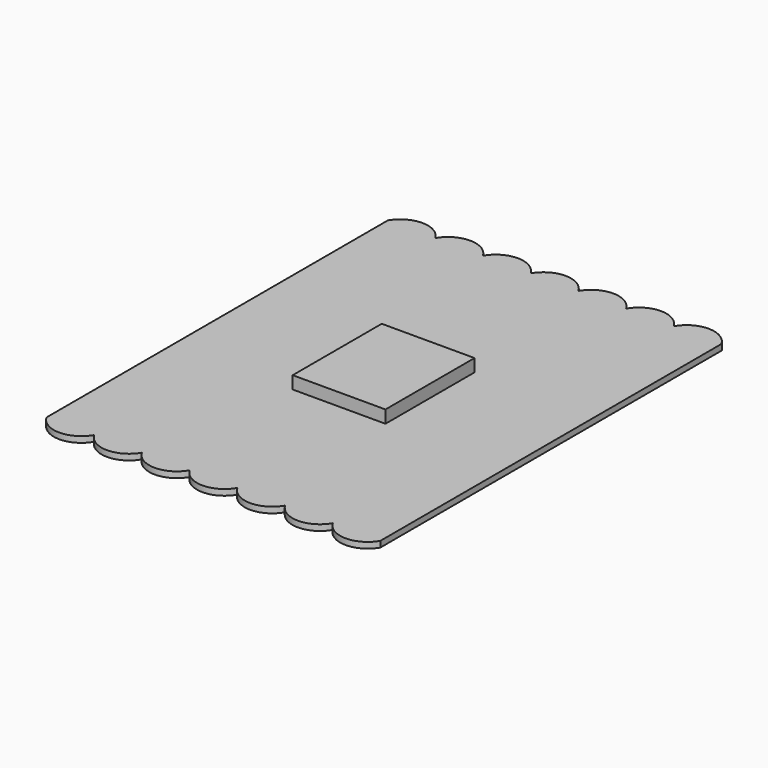
from build123d import *

# Parameters (mm, degrees)
F2_DEPTH = 2.032
F1_W     = 31.75
F1_H     = 38.1
F3_DEPTH = 6.35


with BuildPart() as f2:
    # F0 (on Top) → F2 (new body)
    with BuildSketch(Plane.XY):
        with BuildLine():
            Line((-25.666303, 110.772182), (-25.767383, 110.772182))
            ThreePointArc((-25.767383, 110.772182), (-33.883333, 115.391553), (-41.999282, 110.772182))
            Line((-41.999282, 110.772182), (-41.999282, -35.277818))
            ThreePointArc((-41.999282, -35.277818), (-33.832793, -39.983321), (-25.666303, -35.277818))
            Line((-25.666303, -35.277818), (-25.665812, -35.277818))
            ThreePointArc((-25.665812, -35.277818), (-17.499323, -39.983321), (-9.332833, -35.277818))
            Line((-9.332833, -35.277818), (-9.332342, -35.277818))
            ThreePointArc((-9.332342, -35.277818), (-1.165853, -39.983321), (7.000637, -35.277818))
            Line((7.000637, -35.277818), (7.001128, -35.277818))
            ThreePointArc((7.001128, -35.277818), (15.167617, -39.983321), (23.334107, -35.277818))
            Line((23.334107, -35.277818), (23.334598, -35.277818))
            ThreePointArc((23.334598, -35.277818), (31.501087, -39.983321), (39.667577, -35.277818))
            Line((39.667577, -35.277818), (39.668068, -35.277818))
            ThreePointArc((39.668068, -35.277818), (47.834557, -39.983321), (56.001047, -35.277818))
            Line((56.001047, -35.277818), (56.001538, -35.277818))
            ThreePointArc((56.001538, -35.277818), (64.168027, -39.983321), (72.334517, -35.277818))
            Line((72.334517, -35.277818), (72.300718, -35.277818))
            Line((72.300718, -35.277818), (72.300718, 110.772182))
            Line((72.300718, 110.772182), (72.221139, 110.772182))
            ThreePointArc((72.221139, 110.772182), (64.109867, 115.383686), (55.998595, 110.772182))
            Line((55.998595, 110.772182), (55.889719, 110.772182))
            ThreePointArc((55.889719, 110.772182), (47.777667, 115.384997), (39.665615, 110.772182))
            Line((39.665615, 110.772182), (39.558299, 110.772182))
            ThreePointArc((39.558299, 110.772182), (31.445467, 115.386308), (23.332635, 110.772182))
            Line((23.332635, 110.772182), (23.226879, 110.772182))
            ThreePointArc((23.226879, 110.772182), (15.113267, 115.387619), (6.999655, 110.772182))
            Line((6.999655, 110.772182), (6.895459, 110.772182))
            ThreePointArc((6.895459, 110.772182), (-1.218933, 115.388931), (-9.333324, 110.772182))
            Line((-9.333324, 110.772182), (-9.435962, 110.772182))
            ThreePointArc((-9.435962, 110.772182), (-17.551133, 115.390242), (-25.666303, 110.772182))
        make_face()
    extrude(amount=F2_DEPTH)

    # F1 (on Top) → F3 (join)
    with BuildSketch(Plane.XY):
        with Locations((15.167431, 37.496023)):
            Rectangle(F1_W, F1_H)
    extrude(amount=F3_DEPTH)


solid = f2.part
